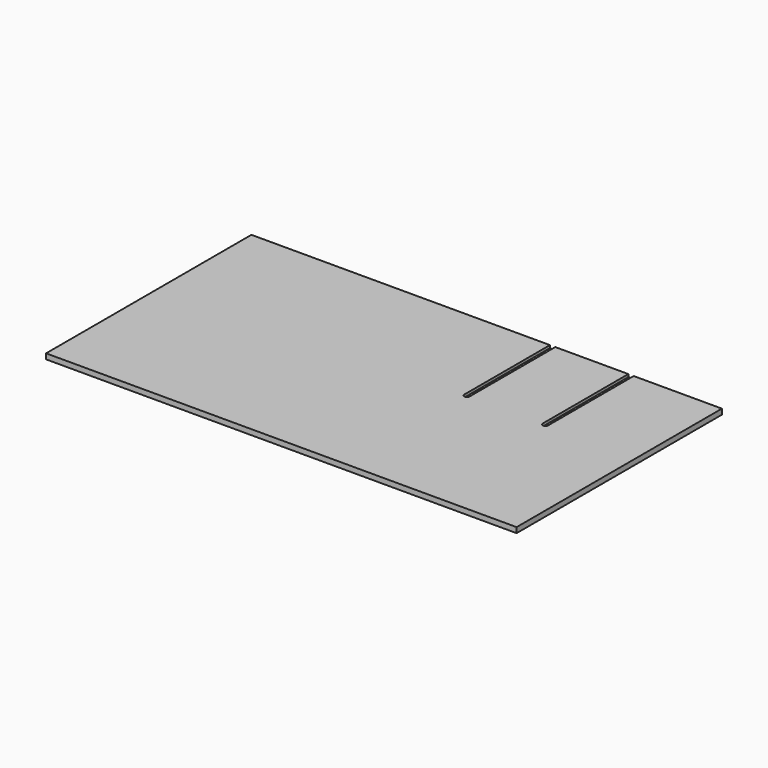
from build123d import *

# Parameters (mm, degrees)
F0_W     = 1676.4
F0_H     = 914.4
F1_DEPTH = 19.05
F3_DEPTH = 9.525


with BuildPart() as f1:
    # F0 (on Top) → F1 (new body)
    with BuildSketch(Plane.XY):
        Rectangle(F0_W, F0_H)
    extrude(amount=F1_DEPTH)

    # F2 (on face) → F3 (cut)
    with BuildSketch(Plane.XY.offset(19.05)):
        with BuildLine():
            Line((523.875, 76.2), (523.875, 457.2))
            Line((523.875, 457.2), (504.825, 457.2))
            Line((504.825, 457.2), (504.825, 76.2))
            ThreePointArc((504.825, 76.2), (514.35, 66.675), (523.875, 76.2))
        make_face()
        with BuildLine():
            Line((244.475, 76.2), (244.475, 457.2))
            Line((244.475, 457.2), (225.425, 457.2))
            Line((225.425, 457.2), (225.425, 76.2))
            ThreePointArc((225.425, 76.2), (234.95, 66.675), (244.475, 76.2))
        make_face()
    extrude(amount=-F3_DEPTH, mode=Mode.SUBTRACT)


solid = f1.part
